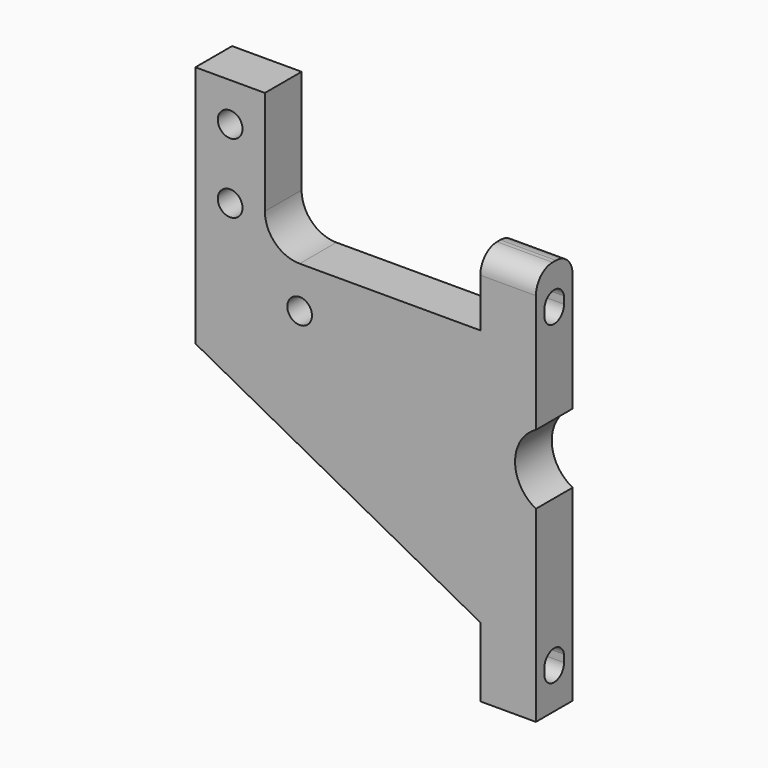
from build123d import *

# Parameters (mm, degrees)
F0_R     = 1.778
F1_DEPTH = 6.6
F3_DEPTH = 8
F4_R     = 3


with BuildPart() as f1:
    # F0 (on Front) → F1 (new body)
    with BuildSketch(Plane.XZ):
        with BuildLine():
            Line((0, 10), (0, 0))
            Line((0, 0), (8, 0))
            Line((8, 0), (8, 27))
            ThreePointArc((8, 27), (5, 32), (8, 37))
            Line((8, 37), (8, 57))
            Line((8, 57), (0, 57))
            Line((0, 57), (0, 47))
            Line((0, 47), (-26, 47))
            ThreePointArc((-26, 47), (-29.535534, 48.464466), (-31, 52))
            Line((-31, 52), (-31, 67))
            Line((-31, 67), (-41, 67))
            Line((-41, 67), (-41, 32))
            Line((-41, 32), (0, 10))
        make_face()
        with Locations((-26, 41)):
            Circle(F0_R, mode=Mode.SUBTRACT)
        with Locations((-36, 51.396919)):
            Circle(F0_R, mode=Mode.SUBTRACT)
        with Locations((-36, 61.396919)):
            Circle(F0_R, mode=Mode.SUBTRACT)
    extrude(amount=F1_DEPTH)

    # F2 (on face) → F3 (cut, through all)
    with BuildSketch(Plane.YZ.offset(8)):
        with BuildLine():
            Line((-1.543041, 50.86), (-1.543041, 51.894725))
            ThreePointArc((-1.543041, 51.894725), (-3.436768, 53.394732), (-5.078, 51.622))
            Line((-5.078, 51.622), (-5.078, 50.587275))
            ThreePointArc((-5.078, 50.587275), (-3.184273, 49.087268), (-1.543041, 50.86))
        make_face()
        with BuildLine():
            ThreePointArc((-5.078, 5.187275), (-3.184273, 3.687268), (-1.543041, 5.46))
            Line((-1.543041, 5.46), (-1.543041, 6.494725))
            ThreePointArc((-1.543041, 6.494725), (-3.436768, 7.994732), (-5.078, 6.222))
            Line((-5.078, 6.222), (-5.078, 5.187275))
        make_face()
    extrude(amount=-F3_DEPTH, mode=Mode.SUBTRACT)

    # F4
    f4_edges = [f1.edges().sort_by_distance(p)[0] for p in [
        (4, 0, 57),
        (4, -6.6, 57),
    ]]
    fillet(f4_edges, radius=F4_R)


solid = f1.part
